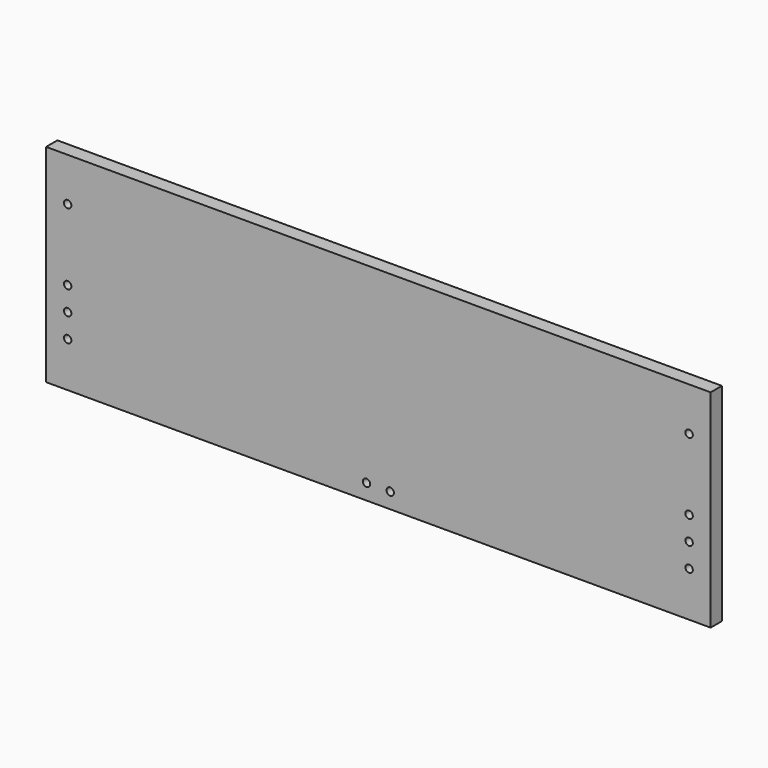
from build123d import *

# Parameters (mm, degrees)
F0_W     = 19
F0_H     = 279
F1_DEPTH = 895
F3_D     = 10
F3_DEPTH = 13
F3_TIP   = 3.0043030951
F4_D     = 10
F4_DEPTH = 10
F4_TIP   = 3.0043030951


with BuildPart() as f1:
    # F0 (on Right) → F1 (new body)
    with BuildSketch(Plane.YZ):
        with Locations((-9.5, 139.5)):
            Rectangle(F0_W, F0_H)
    extrude(amount=F1_DEPTH)

    # F3
    with Locations(Plane.XZ.offset(19)):
        with Locations((29, 220.5), (29, 124.5), (29, 92.5), (29, 60.5), (866, 60.5), (866, 92.5), (866, 124.5), (866, 220.5)):
            Hole(F3_D / 2, depth=F3_DEPTH)
            with Locations((0, 0, -(F3_DEPTH + F3_TIP / 2))):  # 118° drill point
                Cone(0, F3_D / 2, F3_TIP, mode=Mode.SUBTRACT)

    # F4
    with Locations(Plane.XZ.offset(19)):
        with Locations((431.5, 21), (463.5, 21)):
            Hole(F4_D / 2, depth=F4_DEPTH)
            with Locations((0, 0, -(F4_DEPTH + F4_TIP / 2))):  # 118° drill point
                Cone(0, F4_D / 2, F4_TIP, mode=Mode.SUBTRACT)


solid = f1.part
